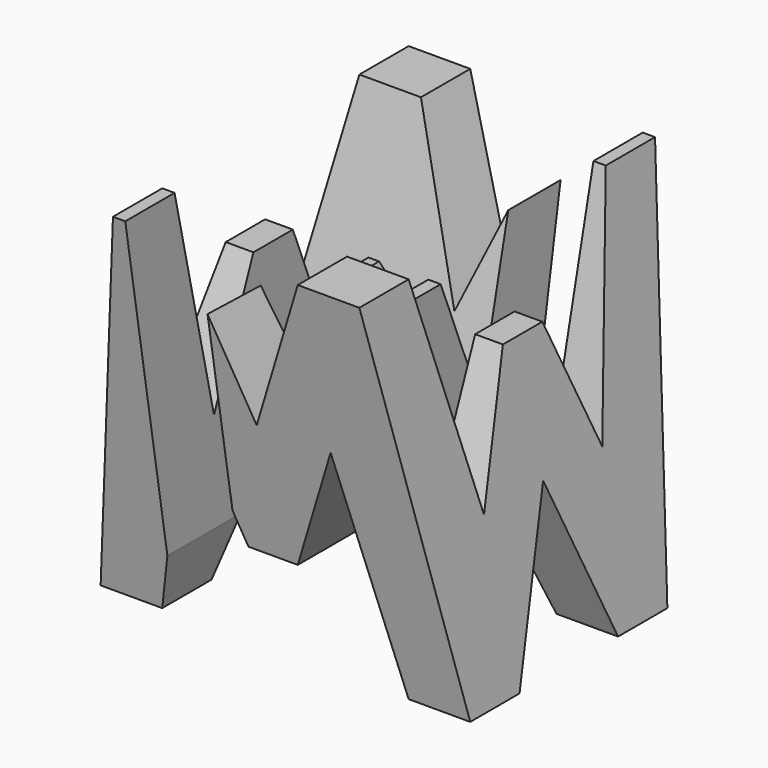
from build123d import *

# Parameters (mm, degrees)
F0_W     = 38.1
F0_H     = 38.1
F1_DEPTH = 38.1
F5_DEPTH = 38.1
F7_DEPTH = 38.1
F8_W     = 7.62
F8_H     = 25.4
F9_DEPTH = 38.1


with BuildPart() as f1:
    # F0 (on Front) → F1 (new body)
    with BuildSketch(Plane.XZ):
        with Locations((-19.05, -19.05)):
            Rectangle(F0_W, F0_H)
    extrude(amount=F1_DEPTH)

    # F4 (on offset) → F5 (cut)
    with BuildSketch(Plane.YZ.offset(-38.1)):
        Polygon((-25.4, -38.1), (-12.7, -38.1), (-19.05, -22.225), align=None)
        Polygon((-11.43, -22.225), (-6.35, 0), (-31.75, 0), (-26.67, -22.225), (-21.59, -9.525), (-16.51, -9.525), align=None)
        Polygon((-31.75, -38.1), (-38.1, 0), (-38.1, -38.1), align=None)
        Polygon((0, -38.1), (0, 0), (-6.35, -38.1), align=None)
    extrude(amount=F5_DEPTH, mode=Mode.SUBTRACT)

    # F6 (on offset) → F7 (cut)
    with BuildSketch(Plane.XZ.offset(38.1)):
        Polygon((-26.67, -15.875), (-31.75, -38.1), (-6.35, -38.1), (-11.43, -15.875), (-16.51, -28.575), (-21.59, -28.575), align=None)
        Polygon((-12.7, 0), (-25.4, 0), (-19.05, -15.875), align=None)
        Polygon((-6.35, 0), (0, -38.1), (0, 0), align=None)
        Polygon((-38.1, 0), (-38.1, -38.1), (-31.75, 0), align=None)
    extrude(amount=-F7_DEPTH, mode=Mode.SUBTRACT)

    # F8 (on Top) → F9 (cut)
    with BuildSketch(Plane.XY):
        with Locations((-11.43, -12.7)):
            Rectangle(F8_W, F8_H)
        Polygon((-30.48, -38.1), (-22.86, -38.1), (-22.648146, -12.7), (-30.48, -12.7), align=None)
    extrude(amount=-F9_DEPTH, mode=Mode.SUBTRACT)


solid = f1.part
